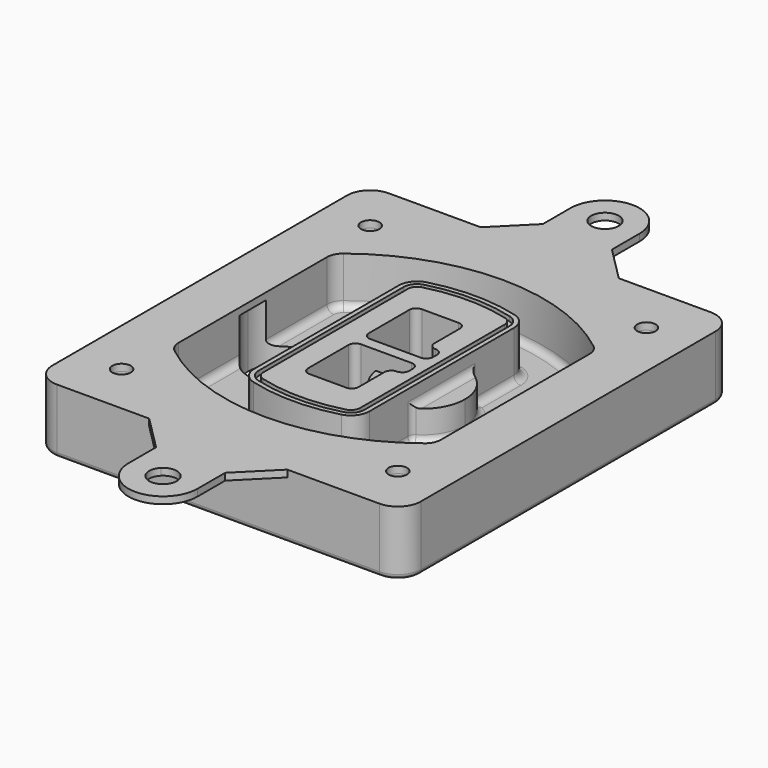
from build123d import *

# Parameters (mm, degrees)
F0_R      = 4
F1_DEPTH  = 25
F2_DEPTH  = 3
F3_DEPTH  = 18
F5_DEPTH  = 21
F6_DEPTH  = 2
F8_DEPTH  = 20
F9_DEPTH  = 16
F10_DEPTH = 25
F7_R      = 6
F7_R_2    = 4
F11_DEPTH = 6
F13_DEPTH = 9
F14_R     = 3
F15_R     = 2
F16_R     = 4
F17_DEPTH = 3


with BuildPart() as f1:
    # F0 (on Top) → F1 (new body)
    with BuildSketch(Plane.XY):
        with BuildLine():
            ThreePointArc((14.05, 38.3825811321), (16.9789321881, 31.3115133202), (24.05, 28.3825811321))
            Line((24.05, 28.3825811321), (164.05, 28.3825811321))
            ThreePointArc((164.05, 28.3825811321), (171.1210678119, 31.3115133202), (174.05, 38.3825811321))
            Line((174.05, 38.3825811321), (174.05, 198.3825811321))
            ThreePointArc((174.05, 198.3825811321), (171.1210678119, 205.4536489439), (164.05, 208.3825811321))
            Line((164.05, 208.3825811321), (24.05, 208.3825811321))
            ThreePointArc((24.05, 208.3825811321), (16.9789321881, 205.4536489439), (14.05, 198.3825811321))
            Line((14.05, 198.3825811321), (14.05, 38.3825811321))
        make_face()
        with Locations((34.05, 50.8825811321)):
            Circle(F0_R, mode=Mode.SUBTRACT)
        with Locations((154.05, 50.8825811321)):
            Circle(F0_R, mode=Mode.SUBTRACT)
        with Locations((34.05, 185.8825811321)):
            Circle(F0_R, mode=Mode.SUBTRACT)
        with BuildLine():
            ThreePointArc((30.05, 158.6760234193), (31.4679615202, 164.8154295545), (35.4346153846, 169.7112011673))
            ThreePointArc((35.4346153846, 169.7112011673), (94.05, 189.8825811321), (152.6653846154, 169.7112011673))
            ThreePointArc((152.6653846154, 169.7112011673), (156.6320384798, 164.8154295545), (158.05, 158.6760234193))
            Line((158.05, 158.6760234193), (158.05, 78.0891388448))
            ThreePointArc((158.05, 78.0891388448), (156.6320384798, 71.9497327097), (152.6653846154, 67.0539610969))
            ThreePointArc((152.6653846154, 67.0539610969), (94.05, 46.8825811321), (35.4346153846, 67.0539610969))
            ThreePointArc((35.4346153846, 67.0539610969), (31.4679615202, 71.9497327097), (30.05, 78.0891388448))
            Line((30.05, 78.0891388448), (30.05, 158.6760234193))
        make_face(mode=Mode.SUBTRACT)
        with Locations((154.05, 185.8825811321)):
            Circle(F0_R, mode=Mode.SUBTRACT)
        with BuildLine():
            ThreePointArc((152.6653846154, 169.7112011673), (94.05, 189.8825811321), (35.4346153846, 169.7112011673))
            ThreePointArc((35.4346153846, 169.7112011673), (31.4679615202, 164.8154295545), (30.05, 158.6760234193))
            Line((30.05, 158.6760234193), (30.05, 78.0891388448))
            ThreePointArc((30.05, 78.0891388448), (31.4679615202, 71.9497327097), (35.4346153846, 67.0539610969))
            ThreePointArc((35.4346153846, 67.0539610969), (94.05, 46.8825811321), (152.6653846154, 67.0539610969))
            ThreePointArc((152.6653846154, 67.0539610969), (156.6320384798, 71.9497327097), (158.05, 78.0891388448))
            Line((158.05, 78.0891388448), (158.05, 158.6760234193))
            ThreePointArc((158.05, 158.6760234193), (156.6320384798, 164.8154295545), (152.6653846154, 169.7112011673))
        make_face()
        with BuildLine():
            Line((34.05, 78.0891388448), (34.05, 158.6760234193))
            ThreePointArc((34.05, 158.6760234193), (35.0628296573, 163.0613135158), (37.8961538462, 166.5582932393))
            ThreePointArc((37.8961538462, 166.5582932393), (94.05, 185.8825811321), (150.2038461538, 166.5582932393))
            ThreePointArc((150.2038461538, 166.5582932393), (153.0371703427, 163.0613135158), (154.05, 158.6760234193))
            Line((154.05, 158.6760234193), (154.05, 78.0891388448))
            ThreePointArc((154.05, 78.0891388448), (153.0371703427, 73.7038487483), (150.2038461538, 70.2068690248))
            ThreePointArc((150.2038461538, 70.2068690248), (94.05, 50.8825811321), (37.8961538462, 70.2068690248))
            ThreePointArc((37.8961538462, 70.2068690248), (35.0628296573, 73.7038487483), (34.05, 78.0891388448))
        make_face(mode=Mode.SUBTRACT)
        with BuildLine():
            ThreePointArc((37.8961538462, 166.5582932393), (35.0628296573, 163.0613135158), (34.05, 158.6760234193))
            Line((34.05, 158.6760234193), (34.05, 78.0891388448))
            ThreePointArc((34.05, 78.0891388448), (35.0628296573, 73.7038487483), (37.8961538462, 70.2068690248))
            ThreePointArc((37.8961538462, 70.2068690248), (94.05, 50.8825811321), (150.2038461538, 70.2068690248))
            ThreePointArc((150.2038461538, 70.2068690248), (153.0371703427, 73.7038487483), (154.05, 78.0891388448))
            Line((154.05, 78.0891388448), (154.05, 158.6760234193))
            ThreePointArc((154.05, 158.6760234193), (153.0371703427, 163.0613135158), (150.2038461538, 166.5582932393))
            ThreePointArc((150.2038461538, 166.5582932393), (94.05, 185.8825811321), (37.8961538462, 166.5582932393))
        make_face()
        with BuildLine():
            ThreePointArc((148.3576923077, 164.1936122933), (150.3410192399, 161.7457264869), (151.05, 158.6760234193))
            Line((151.05, 158.6760234193), (151.05, 78.0891388448))
            ThreePointArc((151.05, 78.0891388448), (150.3410192399, 75.0194357772), (148.3576923077, 72.5715499708))
            ThreePointArc((148.3576923077, 72.5715499708), (94.05, 53.8825811321), (39.7423076923, 72.5715499708))
            ThreePointArc((39.7423076923, 72.5715499708), (37.7589807601, 75.0194357772), (37.05, 78.0891388448))
            Line((37.05, 78.0891388448), (37.05, 158.6760234193))
            ThreePointArc((37.05, 158.6760234193), (37.7589807601, 161.7457264869), (39.7423076923, 164.1936122933))
            ThreePointArc((39.7423076923, 164.1936122933), (94.05, 182.8825811321), (148.3576923077, 164.1936122933))
        make_face(mode=Mode.SUBTRACT)
        with BuildLine():
            Line((151.05, 78.0891388448), (151.05, 158.6760234193))
            ThreePointArc((151.05, 158.6760234193), (150.3410192399, 161.7457264869), (148.3576923077, 164.1936122933))
            ThreePointArc((148.3576923077, 164.1936122933), (94.05, 182.8825811321), (39.7423076923, 164.1936122933))
            ThreePointArc((39.7423076923, 164.1936122933), (37.7589807601, 161.7457264869), (37.05, 158.6760234193))
            Line((37.05, 158.6760234193), (37.05, 78.0891388448))
            ThreePointArc((37.05, 78.0891388448), (37.7589807601, 75.0194357772), (39.7423076923, 72.5715499708))
            ThreePointArc((39.7423076923, 72.5715499708), (94.05, 53.8825811321), (148.3576923077, 72.5715499708))
            ThreePointArc((148.3576923077, 72.5715499708), (150.3410192399, 75.0194357772), (151.05, 78.0891388448))
        make_face()
    extrude(amount=-F1_DEPTH)

    # F0 (on Top) → F2 (join)
    with BuildSketch(Plane.XY):
        with BuildLine():
            ThreePointArc((37.8961538462, 166.5582932393), (35.0628296573, 163.0613135158), (34.05, 158.6760234193))
            Line((34.05, 158.6760234193), (34.05, 78.0891388448))
            ThreePointArc((34.05, 78.0891388448), (35.0628296573, 73.7038487483), (37.8961538462, 70.2068690248))
            ThreePointArc((37.8961538462, 70.2068690248), (94.05, 50.8825811321), (150.2038461538, 70.2068690248))
            ThreePointArc((150.2038461538, 70.2068690248), (153.0371703427, 73.7038487483), (154.05, 78.0891388448))
            Line((154.05, 78.0891388448), (154.05, 158.6760234193))
            ThreePointArc((154.05, 158.6760234193), (153.0371703427, 163.0613135158), (150.2038461538, 166.5582932393))
            ThreePointArc((150.2038461538, 166.5582932393), (94.05, 185.8825811321), (37.8961538462, 166.5582932393))
        make_face()
        with BuildLine():
            ThreePointArc((148.3576923077, 164.1936122933), (150.3410192399, 161.7457264869), (151.05, 158.6760234193))
            Line((151.05, 158.6760234193), (151.05, 78.0891388448))
            ThreePointArc((151.05, 78.0891388448), (150.3410192399, 75.0194357772), (148.3576923077, 72.5715499708))
            ThreePointArc((148.3576923077, 72.5715499708), (94.05, 53.8825811321), (39.7423076923, 72.5715499708))
            ThreePointArc((39.7423076923, 72.5715499708), (37.7589807601, 75.0194357772), (37.05, 78.0891388448))
            Line((37.05, 78.0891388448), (37.05, 158.6760234193))
            ThreePointArc((37.05, 158.6760234193), (37.7589807601, 161.7457264869), (39.7423076923, 164.1936122933))
            ThreePointArc((39.7423076923, 164.1936122933), (94.05, 182.8825811321), (148.3576923077, 164.1936122933))
        make_face(mode=Mode.SUBTRACT)
    extrude(amount=F2_DEPTH)

    # F0 (on Top) → F3 (cut)
    with BuildSketch(Plane.XY):
        with BuildLine():
            Line((151.05, 78.0891388448), (151.05, 158.6760234193))
            ThreePointArc((151.05, 158.6760234193), (150.3410192399, 161.7457264869), (148.3576923077, 164.1936122933))
            ThreePointArc((148.3576923077, 164.1936122933), (94.05, 182.8825811321), (39.7423076923, 164.1936122933))
            ThreePointArc((39.7423076923, 164.1936122933), (37.7589807601, 161.7457264869), (37.05, 158.6760234193))
            Line((37.05, 158.6760234193), (37.05, 78.0891388448))
            ThreePointArc((37.05, 78.0891388448), (37.7589807601, 75.0194357772), (39.7423076923, 72.5715499708))
            ThreePointArc((39.7423076923, 72.5715499708), (94.05, 53.8825811321), (148.3576923077, 72.5715499708))
            ThreePointArc((148.3576923077, 72.5715499708), (150.3410192399, 75.0194357772), (151.05, 78.0891388448))
        make_face()
    extrude(amount=-F3_DEPTH, mode=Mode.SUBTRACT)

    # F4 (on face) → F5 (join, through all)
    with BuildSketch(Plane.XY.offset(3)):
        with BuildLine():
            ThreePointArc((69.05, 79.13605345), (70.6988454002, 74.2716074128), (74.9657088123, 71.4123412437))
            ThreePointArc((74.9657088123, 71.4123412437), (94.05, 68.8825811321), (113.1342911877, 71.4123412437))
            ThreePointArc((113.1342911877, 71.4123412437), (117.4011545998, 74.2716074128), (119.05, 79.13605345))
            Line((119.05, 79.13605345), (119.05, 157.6291088141))
            ThreePointArc((119.05, 157.6291088141), (117.4011545998, 162.4935548514), (113.1342911877, 165.3528210204))
            ThreePointArc((113.1342911877, 165.3528210204), (94.05, 167.8825811321), (74.9657088123, 165.3528210204))
            ThreePointArc((74.9657088123, 165.3528210204), (70.6988454002, 162.4935548514), (69.05, 157.6291088141))
            Line((69.05, 157.6291088141), (69.05, 79.13605345))
        make_face()
        with BuildLine():
            ThreePointArc((112.6132183908, 163.4218929688), (115.8133659499, 161.2774433421), (117.05, 157.6291088141))
            Line((117.05, 157.6291088141), (117.05, 79.13605345))
            ThreePointArc((117.05, 79.13605345), (115.8133659499, 75.4877189221), (112.6132183908, 73.3432692953))
            ThreePointArc((112.6132183908, 73.3432692953), (94.05, 70.8825811321), (75.4867816092, 73.3432692953))
            ThreePointArc((75.4867816092, 73.3432692953), (72.2866340501, 75.4877189221), (71.05, 79.13605345))
            Line((71.05, 79.13605345), (71.05, 157.6291088141))
            ThreePointArc((71.05, 157.6291088141), (72.2866340501, 161.2774433421), (75.4867816092, 163.4218929688))
            ThreePointArc((75.4867816092, 163.4218929688), (94.05, 165.8825811321), (112.6132183908, 163.4218929688))
        make_face(mode=Mode.SUBTRACT)
        with BuildLine():
            Line((117.05, 79.13605345), (117.05, 157.6291088141))
            ThreePointArc((117.05, 157.6291088141), (115.8133659499, 161.2774433421), (112.6132183908, 163.4218929688))
            ThreePointArc((112.6132183908, 163.4218929688), (94.05, 165.8825811321), (75.4867816092, 163.4218929688))
            ThreePointArc((75.4867816092, 163.4218929688), (72.2866340501, 161.2774433421), (71.05, 157.6291088141))
            Line((71.05, 157.6291088141), (71.05, 79.13605345))
            ThreePointArc((71.05, 79.13605345), (72.2866340501, 75.4877189221), (75.4867816092, 73.3432692953))
            ThreePointArc((75.4867816092, 73.3432692953), (94.05, 70.8825811321), (112.6132183908, 73.3432692953))
            ThreePointArc((112.6132183908, 73.3432692953), (115.8133659499, 75.4877189221), (117.05, 79.13605345))
        make_face()
        with BuildLine():
            ThreePointArc((112.0921455939, 161.4909649173), (114.2255772999, 160.0613318328), (115.05, 157.6291088141))
            Line((115.05, 157.6291088141), (115.05, 79.13605345))
            ThreePointArc((115.05, 79.13605345), (114.2255772999, 76.7038304314), (112.0921455939, 75.2741973469))
            ThreePointArc((112.0921455939, 75.2741973469), (94.05, 72.8825811321), (76.0078544061, 75.2741973469))
            ThreePointArc((76.0078544061, 75.2741973469), (73.8744227001, 76.7038304314), (73.05, 79.13605345))
            Line((73.05, 79.13605345), (73.05, 157.6291088141))
            ThreePointArc((73.05, 157.6291088141), (73.8744227001, 160.0613318328), (76.0078544061, 161.4909649173))
            ThreePointArc((76.0078544061, 161.4909649173), (94.05, 163.8825811321), (112.0921455939, 161.4909649173))
        make_face(mode=Mode.SUBTRACT)
        with BuildLine():
            Line((115.05, 79.13605345), (115.05, 157.6291088141))
            ThreePointArc((115.05, 157.6291088141), (114.2255772999, 160.0613318328), (112.0921455939, 161.4909649173))
            ThreePointArc((112.0921455939, 161.4909649173), (94.05, 163.8825811321), (76.0078544061, 161.4909649173))
            ThreePointArc((76.0078544061, 161.4909649173), (73.8744227001, 160.0613318328), (73.05, 157.6291088141))
            Line((73.05, 157.6291088141), (73.05, 79.13605345))
            ThreePointArc((73.05, 79.13605345), (73.8744227001, 76.7038304314), (76.0078544061, 75.2741973469))
            ThreePointArc((76.0078544061, 75.2741973469), (94.05, 72.8825811321), (112.0921455939, 75.2741973469))
            ThreePointArc((112.0921455939, 75.2741973469), (114.2255772999, 76.7038304314), (115.05, 79.13605345))
        make_face()
        with BuildLine():
            Line((86.05, 115.8825811321), (108.05, 115.8825811321))
            ThreePointArc((108.05, 115.8825811321), (110.1713203436, 115.0039014756), (111.05, 112.8825811321))
            Line((111.05, 112.8825811321), (111.05, 110.8825811321))
            ThreePointArc((111.05, 110.8825811321), (110.1713203436, 108.7612607885), (108.05, 107.8825811321))
            ThreePointArc((108.05, 107.8825811321), (105.9286796564, 107.0039014756), (105.05, 104.8825811321))
            Line((105.05, 104.8825811321), (105.05, 90.8825811321))
            ThreePointArc((105.05, 90.8825811321), (104.1713203436, 88.7612607885), (102.05, 87.8825811321))
            Line((102.05, 87.8825811321), (86.05, 87.8825811321))
            ThreePointArc((86.05, 87.8825811321), (83.9286796564, 88.7612607885), (83.05, 90.8825811321))
            Line((83.05, 90.8825811321), (83.05, 112.8825811321))
            ThreePointArc((83.05, 112.8825811321), (83.9286796564, 115.0039014756), (86.05, 115.8825811321))
        make_face(mode=Mode.SUBTRACT)
        with BuildLine():
            ThreePointArc((86.05, 120.8825811321), (83.9286796564, 121.7612607885), (83.05, 123.8825811321))
            Line((83.05, 123.8825811321), (83.05, 145.8825811321))
            ThreePointArc((83.05, 145.8825811321), (83.9286796564, 148.0039014756), (86.05, 148.8825811321))
            Line((86.05, 148.8825811321), (102.05, 148.8825811321))
            ThreePointArc((102.05, 148.8825811321), (104.1713203436, 148.0039014756), (105.05, 145.8825811321))
            Line((105.05, 145.8825811321), (105.05, 131.8825811321))
            ThreePointArc((105.05, 131.8825811321), (105.9286796564, 129.7612607885), (108.05, 128.8825811321))
            ThreePointArc((108.05, 128.8825811321), (110.1713203436, 128.0039014756), (111.05, 125.8825811321))
            Line((111.05, 125.8825811321), (111.05, 123.8825811321))
            ThreePointArc((111.05, 123.8825811321), (110.1713203436, 121.7612607885), (108.05, 120.8825811321))
            Line((108.05, 120.8825811321), (86.05, 120.8825811321))
        make_face(mode=Mode.SUBTRACT)
    extrude(amount=-F5_DEPTH)

    # F4 (on face) → F6 (cut)
    with BuildSketch(Plane.XY.offset(3)):
        with BuildLine():
            Line((117.05, 79.13605345), (117.05, 157.6291088141))
            ThreePointArc((117.05, 157.6291088141), (115.8133659499, 161.2774433421), (112.6132183908, 163.4218929688))
            ThreePointArc((112.6132183908, 163.4218929688), (94.05, 165.8825811321), (75.4867816092, 163.4218929688))
            ThreePointArc((75.4867816092, 163.4218929688), (72.2866340501, 161.2774433421), (71.05, 157.6291088141))
            Line((71.05, 157.6291088141), (71.05, 79.13605345))
            ThreePointArc((71.05, 79.13605345), (72.2866340501, 75.4877189221), (75.4867816092, 73.3432692953))
            ThreePointArc((75.4867816092, 73.3432692953), (94.05, 70.8825811321), (112.6132183908, 73.3432692953))
            ThreePointArc((112.6132183908, 73.3432692953), (115.8133659499, 75.4877189221), (117.05, 79.13605345))
        make_face()
        with BuildLine():
            ThreePointArc((112.0921455939, 161.4909649173), (114.2255772999, 160.0613318328), (115.05, 157.6291088141))
            Line((115.05, 157.6291088141), (115.05, 79.13605345))
            ThreePointArc((115.05, 79.13605345), (114.2255772999, 76.7038304314), (112.0921455939, 75.2741973469))
            ThreePointArc((112.0921455939, 75.2741973469), (94.05, 72.8825811321), (76.0078544061, 75.2741973469))
            ThreePointArc((76.0078544061, 75.2741973469), (73.8744227001, 76.7038304314), (73.05, 79.13605345))
            Line((73.05, 79.13605345), (73.05, 157.6291088141))
            ThreePointArc((73.05, 157.6291088141), (73.8744227001, 160.0613318328), (76.0078544061, 161.4909649173))
            ThreePointArc((76.0078544061, 161.4909649173), (94.05, 163.8825811321), (112.0921455939, 161.4909649173))
        make_face(mode=Mode.SUBTRACT)
    extrude(amount=-F6_DEPTH, mode=Mode.SUBTRACT)

    # F7 (on face) → F8 (join)
    with BuildSketch(Plane(origin=(0, 0, -25), x_dir=(1, 0, 0), z_dir=(0, 0, -1))):
        with BuildLine():
            ThreePointArc((97.33842436, -118.3825811321), (110.8067035675, -104.9143019245), (124.274982775, -118.3825811321))
            Line((124.274982775, -118.3825811321), (129.274982775, -118.3825811321))
            ThreePointArc((129.274982775, -118.3825811321), (110.8067035675, -99.9143019245), (92.33842436, -118.3825811321))
            Line((92.33842436, -118.3825811321), (97.33842436, -118.3825811321))
        make_face()
        with BuildLine():
            Line((97.33842436, -118.3825811321), (124.274982775, -118.3825811321))
            ThreePointArc((124.274982775, -118.3825811321), (110.8067035675, -104.9143019245), (97.33842436, -118.3825811321))
        make_face()
        with BuildLine():
            ThreePointArc((97.33842436, -118.3825811321), (110.8067035675, -131.8508603396), (124.274982775, -118.3825811321))
            Line((124.274982775, -118.3825811321), (97.33842436, -118.3825811321))
        make_face()
        with BuildLine():
            Line((129.274982775, -118.3825811321), (124.274982775, -118.3825811321))
            ThreePointArc((124.274982775, -118.3825811321), (110.8067035675, -131.8508603396), (97.33842436, -118.3825811321))
            Line((97.33842436, -118.3825811321), (92.33842436, -118.3825811321))
            ThreePointArc((92.33842436, -118.3825811321), (110.8067035675, -136.8508603396), (129.274982775, -118.3825811321))
        make_face()
    extrude(amount=-F8_DEPTH)

    # F7 (on face) → F9 (cut)
    with BuildSketch(Plane(origin=(0, 0, -25), x_dir=(1, 0, 0), z_dir=(0, 0, -1))):
        with BuildLine():
            Line((97.33842436, -118.3825811321), (124.274982775, -118.3825811321))
            ThreePointArc((124.274982775, -118.3825811321), (110.8067035675, -104.9143019245), (97.33842436, -118.3825811321))
        make_face()
        with BuildLine():
            ThreePointArc((97.33842436, -118.3825811321), (110.8067035675, -131.8508603396), (124.274982775, -118.3825811321))
            Line((124.274982775, -118.3825811321), (97.33842436, -118.3825811321))
        make_face()
    extrude(amount=-F9_DEPTH, mode=Mode.SUBTRACT)

    # F7 (on face) → F10 (cut)
    with BuildSketch(Plane(origin=(0, 0, -25), x_dir=(1, 0, 0), z_dir=(0, 0, -1))):
        with BuildLine():
            Line((35.0181770675, -118.3825811321), (61.9547354825, -118.3825811321))
            ThreePointArc((61.9547354825, -118.3825811321), (48.486456275, -104.9143019245), (35.0181770675, -118.3825811321))
        make_face()
        with BuildLine():
            ThreePointArc((35.0181770675, -118.3825811321), (48.486456275, -131.8508603396), (61.9547354825, -118.3825811321))
            Line((61.9547354825, -118.3825811321), (35.0181770675, -118.3825811321))
        make_face()
    extrude(amount=-F10_DEPTH, mode=Mode.SUBTRACT)

    # F7 (on face) → F11 (cut)
    with BuildSketch(Plane(origin=(0, 0, -25), x_dir=(1, 0, 0), z_dir=(0, 0, -1))):
        with Locations((154.05, -185.8825811321)):
            Circle(F7_R)
        with Locations((154.05, -185.8825811321)):
            Circle(F7_R_2, mode=Mode.SUBTRACT)
        with Locations((154.05, -185.8825811321)):
            Circle(F7_R)
        with Locations((154.05, -185.8825811321)):
            Circle(F7_R_2, mode=Mode.SUBTRACT)
        with Locations((34.05, -185.8825811321)):
            Circle(F7_R)
        with Locations((34.05, -185.8825811321)):
            Circle(F7_R_2, mode=Mode.SUBTRACT)
        with Locations((34.05, -185.8825811321)):
            Circle(F7_R)
        with Locations((34.05, -185.8825811321)):
            Circle(F7_R_2, mode=Mode.SUBTRACT)
        with Locations((34.05, -50.8825811321)):
            Circle(F7_R)
        with Locations((34.05, -50.8825811321)):
            Circle(F7_R_2, mode=Mode.SUBTRACT)
        with Locations((34.05, -50.8825811321)):
            Circle(F7_R)
        with Locations((34.05, -50.8825811321)):
            Circle(F7_R_2, mode=Mode.SUBTRACT)
        with Locations((154.05, -50.8825811321)):
            Circle(F7_R)
        with Locations((154.05, -50.8825811321)):
            Circle(F7_R_2, mode=Mode.SUBTRACT)
        with Locations((154.05, -50.8825811321)):
            Circle(F7_R)
        with Locations((154.05, -50.8825811321)):
            Circle(F7_R_2, mode=Mode.SUBTRACT)
    extrude(amount=-F11_DEPTH, mode=Mode.SUBTRACT)

    # F12 (on face) → F13 (cut, through all)
    with BuildSketch(Plane(origin=(0, 0, -9), x_dir=(1, 0, 0), z_dir=(0, 0, -1))):
        with BuildLine():
            Line((105.05, -104.8825811321), (105.05, -100.8344273567))
            ThreePointArc((105.05, -100.8344273567), (96.6196536419, -106.5586667507), (92.5084157545, -115.8825811321))
            Line((92.5084157545, -115.8825811321), (97.5724848595, -115.8825811321))
            ThreePointArc((97.5724848595, -115.8825811321), (100.2357188154, -110.0369939039), (105.3036447004, -106.0898642673))
            ThreePointArc((105.3036447004, -106.0898642673), (105.1140958889, -105.4994012441), (105.05, -104.8825811321))
        make_face()
        with BuildLine():
            ThreePointArc((105.3036447004, -130.6752979968), (100.2357188154, -126.7281683602), (97.5724848595, -120.8825811321))
            Line((97.5724848595, -120.8825811321), (92.5084157545, -120.8825811321))
            ThreePointArc((92.5084157545, -120.8825811321), (96.6196536419, -130.2064955134), (105.05, -135.9307349074))
            Line((105.05, -135.9307349074), (105.05, -131.8825811321))
            ThreePointArc((105.05, -131.8825811321), (105.1140958889, -131.26576102), (105.3036447004, -130.6752979968))
        make_face()
        with BuildLine():
            ThreePointArc((105.3036447004, -106.0898642673), (100.2357188154, -110.0369939039), (97.5724848595, -115.8825811321))
            Line((97.5724848595, -115.8825811321), (108.05, -115.8825811321))
            ThreePointArc((108.05, -115.8825811321), (110.1713203436, -115.0039014756), (111.05, -112.8825811321))
            Line((111.05, -112.8825811321), (111.05, -110.8825811321))
            ThreePointArc((111.05, -110.8825811321), (110.1713203436, -108.7612607885), (108.05, -107.8825811321))
            ThreePointArc((108.05, -107.8825811321), (106.4101599782, -107.3947365219), (105.3036447004, -106.0898642673))
        make_face()
        with BuildLine():
            Line((108.05, -120.8825811321), (97.5724848595, -120.8825811321))
            ThreePointArc((97.5724848595, -120.8825811321), (100.2357188154, -126.7281683602), (105.3036447004, -130.6752979968))
            ThreePointArc((105.3036447004, -130.6752979968), (106.4101599782, -129.3704257422), (108.05, -128.8825811321))
            ThreePointArc((108.05, -128.8825811321), (110.1713203436, -128.0039014756), (111.05, -125.8825811321))
            Line((111.05, -125.8825811321), (111.05, -123.8825811321))
            ThreePointArc((111.05, -123.8825811321), (110.1713203436, -121.7612607885), (108.05, -120.8825811321))
        make_face()
    extrude(amount=F13_DEPTH, mode=Mode.SUBTRACT)

    # F14
    f14_edges = [f1.edges().sort_by_distance(p)[0] for p in [
        (37.05, 94.679105, -18),
        (37.05, 142.086057, -18),
        (119.05, 118.382581, -5),
        (119.05, 134.909087, -11.5),
        (119.05, 101.856075, -11.5),
        (119.05, 90.496064, -18),
        (129.274983, 118.382581, -18),
    ]]
    fillet(f14_edges, radius=F14_R)

    # F15
    f15_edges = [f1.edges().sort_by_distance(p)[0] for p in [
        (94.05, 28.382581, -25),
    ]]
    fillet(f15_edges, radius=F15_R)

    # F16 (on face) → F17 (join)
    with BuildSketch(Plane.XY):
        with BuildLine():
            Line((89.8073593129, 2.6252218192), (83.4433982822, 8.9891828499))
            ThreePointArc((83.4433982822, 8.9891828499), (80.1918070123, 4.1228326175), (79.05, -1.6174188679))
            ThreePointArc((79.05, -1.6174188679), (94.05, -16.6174188679), (109.05, -1.6174188679))
            ThreePointArc((109.05, -1.6174188679), (107.9081929877, 4.1228326175), (104.6566017178, 8.9891828499))
            Line((104.6566017178, 8.9891828499), (98.2926406871, 2.6252218192))
            ThreePointArc((98.2926406871, 2.6252218192), (99.5932771951, 0.6786817262), (100.05, -1.6174188679))
            ThreePointArc((100.05, -1.6174188679), (91.7538994058, -7.160696063), (89.8073593129, 2.6252218192))
        make_face()
        with BuildLine():
            Line((109.05, -1.6174188679), (109.05, 13.3825811321))
            Line((109.05, 13.3825811321), (104.6566017178, 8.9891828499))
            ThreePointArc((104.6566017178, 8.9891828499), (107.9081929877, 4.1228326175), (109.05, -1.6174188679))
        make_face()
        with BuildLine():
            Line((83.4433982822, 8.9891828499), (79.05, 13.3825811321))
            Line((79.05, 13.3825811321), (79.05, -1.6174188679))
            ThreePointArc((79.05, -1.6174188679), (80.1918070123, 4.1228326175), (83.4433982822, 8.9891828499))
        make_face()
        with BuildLine():
            Line((124.05, 28.3825811321), (64.05, 28.3825811321))
            Line((64.05, 28.3825811321), (79.05, 13.3825811321))
            Line((79.05, 13.3825811321), (83.4433982822, 8.9891828499))
            ThreePointArc((83.4433982822, 8.9891828499), (94.05, 13.3825811321), (104.6566017178, 8.9891828499))
            Line((104.6566017178, 8.9891828499), (109.05, 13.3825811321))
            Line((109.05, 13.3825811321), (124.05, 28.3825811321))
        make_face()
        with BuildLine():
            ThreePointArc((104.6566017178, 8.9891828499), (94.05, 13.3825811321), (83.4433982822, 8.9891828499))
            Line((83.4433982822, 8.9891828499), (89.8073593129, 2.6252218192))
            ThreePointArc((89.8073593129, 2.6252218192), (94.05, 4.3825811321), (98.2926406871, 2.6252218192))
            Line((98.2926406871, 2.6252218192), (104.6566017178, 8.9891828499))
        make_face()
        with BuildLine():
            ThreePointArc((104.6566017178, 227.7759794143), (94.05, 223.3825811321), (83.4433982822, 227.7759794143))
            Line((83.4433982822, 227.7759794143), (79.05, 223.3825811321))
            Line((79.05, 223.3825811321), (64.05, 208.3825811321))
            Line((64.05, 208.3825811321), (124.05, 208.3825811321))
            Line((124.05, 208.3825811321), (109.05, 223.3825811321))
            Line((109.05, 223.3825811321), (104.6566017178, 227.7759794143))
        make_face()
        with BuildLine():
            ThreePointArc((98.2926406871, 234.1399404449), (94.05, 232.3825811321), (89.8073593129, 234.1399404449))
            Line((89.8073593129, 234.1399404449), (83.4433982822, 227.7759794143))
            ThreePointArc((83.4433982822, 227.7759794143), (94.05, 223.3825811321), (104.6566017178, 227.7759794143))
            Line((104.6566017178, 227.7759794143), (98.2926406871, 234.1399404449))
        make_face()
        with BuildLine():
            ThreePointArc((89.8073593129, 234.1399404449), (91.7538994058, 243.9258583271), (100.05, 238.3825811321))
            ThreePointArc((100.05, 238.3825811321), (99.5932771951, 236.0864805379), (98.2926406871, 234.1399404449))
            Line((98.2926406871, 234.1399404449), (104.6566017178, 227.7759794143))
            ThreePointArc((104.6566017178, 227.7759794143), (107.9081929877, 232.6423296466), (109.05, 238.3825811321))
            ThreePointArc((109.05, 238.3825811321), (94.05, 253.3825811321), (79.05, 238.3825811321))
            ThreePointArc((79.05, 238.3825811321), (80.1918070123, 232.6423296466), (83.4433982822, 227.7759794143))
            Line((83.4433982822, 227.7759794143), (89.8073593129, 234.1399404449))
        make_face()
        with BuildLine():
            ThreePointArc((109.05, 238.3825811321), (107.9081929877, 232.6423296466), (104.6566017178, 227.7759794143))
            Line((104.6566017178, 227.7759794143), (109.05, 223.3825811321))
            Line((109.05, 223.3825811321), (109.05, 238.3825811321))
        make_face()
        with BuildLine():
            Line((79.05, 223.3825811321), (83.4433982822, 227.7759794143))
            ThreePointArc((83.4433982822, 227.7759794143), (80.1918070123, 232.6423296466), (79.05, 238.3825811321))
            Line((79.05, 238.3825811321), (79.05, 223.3825811321))
        make_face()
        with BuildLine():
            Line((124.05, 208.3825811321), (64.05, 208.3825811321))
            Line((64.05, 208.3825811321), (24.05, 208.3825811321))
            ThreePointArc((24.05, 208.3825811321), (16.9789321881, 205.4536489439), (14.05, 198.3825811321))
            Line((14.05, 198.3825811321), (14.05, 38.3825811321))
            ThreePointArc((14.05, 38.3825811321), (16.9789321881, 31.3115133202), (24.05, 28.3825811321))
            Line((24.05, 28.3825811321), (64.05, 28.3825811321))
            Line((64.05, 28.3825811321), (124.05, 28.3825811321))
            Line((124.05, 28.3825811321), (164.05, 28.3825811321))
            ThreePointArc((164.05, 28.3825811321), (171.1210678119, 31.3115133202), (174.05, 38.3825811321))
            Line((174.05, 38.3825811321), (174.05, 198.3825811321))
            ThreePointArc((174.05, 198.3825811321), (171.1210678119, 205.4536489439), (164.05, 208.3825811321))
            Line((164.05, 208.3825811321), (124.05, 208.3825811321))
        make_face()
        with Locations((34.05, 50.8825811321)):
            Circle(F16_R, mode=Mode.SUBTRACT)
        with Locations((154.05, 50.8825811321)):
            Circle(F16_R, mode=Mode.SUBTRACT)
        with BuildLine():
            ThreePointArc((34.05, 158.6760234193), (35.0628296573, 163.0613135158), (37.8961538462, 166.5582932393))
            ThreePointArc((37.8961538462, 166.5582932393), (94.05, 185.8825811321), (150.2038461538, 166.5582932393))
            ThreePointArc((150.2038461538, 166.5582932393), (153.0371703427, 163.0613135158), (154.05, 158.6760234193))
            Line((154.05, 158.6760234193), (154.05, 78.0891388448))
            ThreePointArc((154.05, 78.0891388448), (153.0371703427, 73.7038487483), (150.2038461538, 70.2068690248))
            ThreePointArc((150.2038461538, 70.2068690248), (94.05, 50.8825811321), (37.8961538462, 70.2068690248))
            ThreePointArc((37.8961538462, 70.2068690248), (35.0628296573, 73.7038487483), (34.05, 78.0891388448))
            Line((34.05, 78.0891388448), (34.05, 158.6760234193))
        make_face(mode=Mode.SUBTRACT)
        with Locations((34.05, 185.8825811321)):
            Circle(F16_R, mode=Mode.SUBTRACT)
        with Locations((154.05, 185.8825811321)):
            Circle(F16_R, mode=Mode.SUBTRACT)
    extrude(amount=F17_DEPTH)


solid = f1.part
